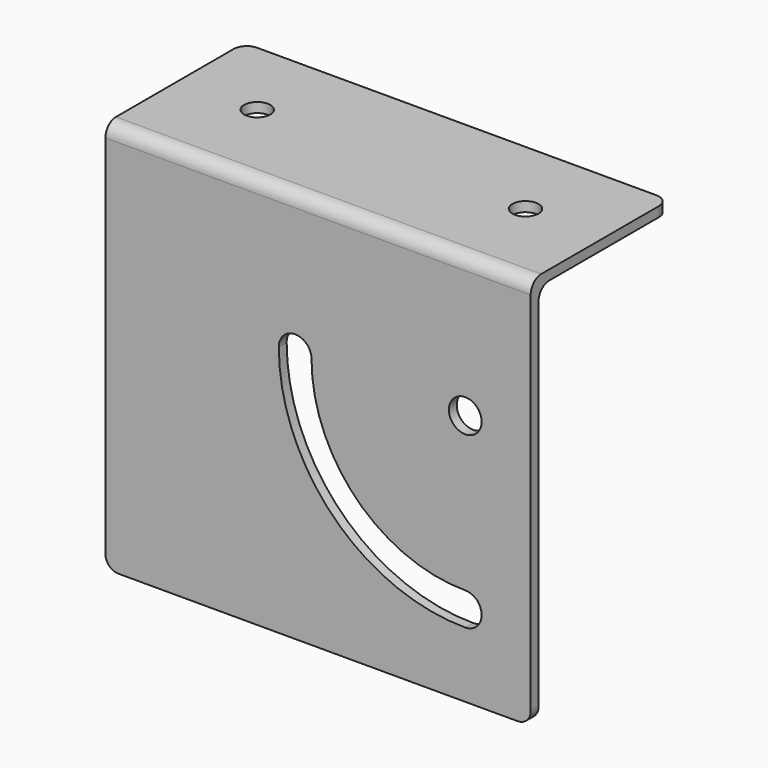
from build123d import *

# Parameters (mm, degrees)
F1_W     = 65
F1_H     = 60
F1_R     = 2.5
F2_DEPTH = 1.5
F3_W     = 65
F3_H     = 1.5
F4_DEPTH = 25
F5_R     = 2
F6_DEPTH = 25
F7_R     = 2


with BuildPart() as f2:
    # F1 (on face) → F2 (new body)
    with BuildSketch(Plane.XZ):
        with Locations((32.5, -30)):
            Rectangle(F1_W, F1_H)
        with BuildLine():
            ThreePointArc((55, -45), (57.5, -47.5), (55, -50))
            ThreePointArc((55, -50), (34.847457, -41.652543), (26.5, -21.5))
            ThreePointArc((26.5, -21.5), (29, -19), (31.5, -21.5))
            ThreePointArc((31.5, -21.5), (38.382991, -38.117009), (55, -45))
        make_face(mode=Mode.SUBTRACT)
        with Locations((55, -21.5)):
            Circle(F1_R, mode=Mode.SUBTRACT)
    extrude(amount=F2_DEPTH)

    # F3 (on Front) → F4 (join)
    with BuildSketch(Plane.XZ):
        with Locations((32.5, -0.75)):
            Rectangle(F3_W, F3_H)
    extrude(amount=-F4_DEPTH)

    # F5 (on face) → F6 (cut)
    with BuildSketch(Plane.XY):
        with Locations((53, 12.5)):
            Circle(F5_R)
        with Locations((12, 12.5)):
            Circle(F5_R)
    extrude(amount=-F6_DEPTH, mode=Mode.SUBTRACT)

    # F7
    f7_edges = [f2.edges().sort_by_distance(p)[0] for p in [
        (65, -0.75, -60),
        (32.5, 0, -1.5),
        (32.5, -1.5, 0),
        (0, -0.75, -60),
        (0, 25, -0.75),
        (65, 25, -0.75),
    ]]
    fillet(f7_edges, radius=F7_R)


solid = f2.part
